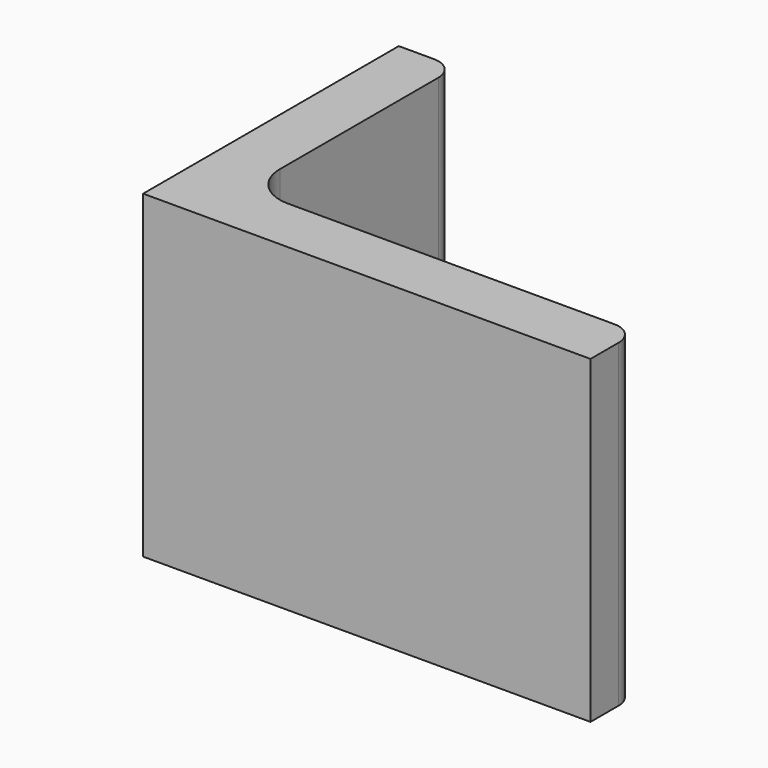
from build123d import *

# Parameters (mm, degrees)
EXTRUDE_DEPTH = 50


with BuildPart() as part:
    # Sketch → Extrude (new body)
    with BuildSketch(Plane.XY):
        with BuildLine():
            Line((0, 0), (70, 0))
            Line((70, 0), (70, 5.5))
            ThreePointArc((70, 5.5), (68.974874, 7.974874), (66.5, 9))
            Line((66.5, 9), (15.5, 9))
            ThreePointArc((9, 15.5), (10.903806, 10.903806), (15.5, 9))
            Line((9, 46.5), (9, 15.5))
            ThreePointArc((9, 46.5), (7.974874, 48.974874), (5.5, 50))
            Line((0, 50), (5.5, 50))
            Line((0, 0), (0, 50))
        make_face()
    extrude(amount=EXTRUDE_DEPTH)


solid = part.part
